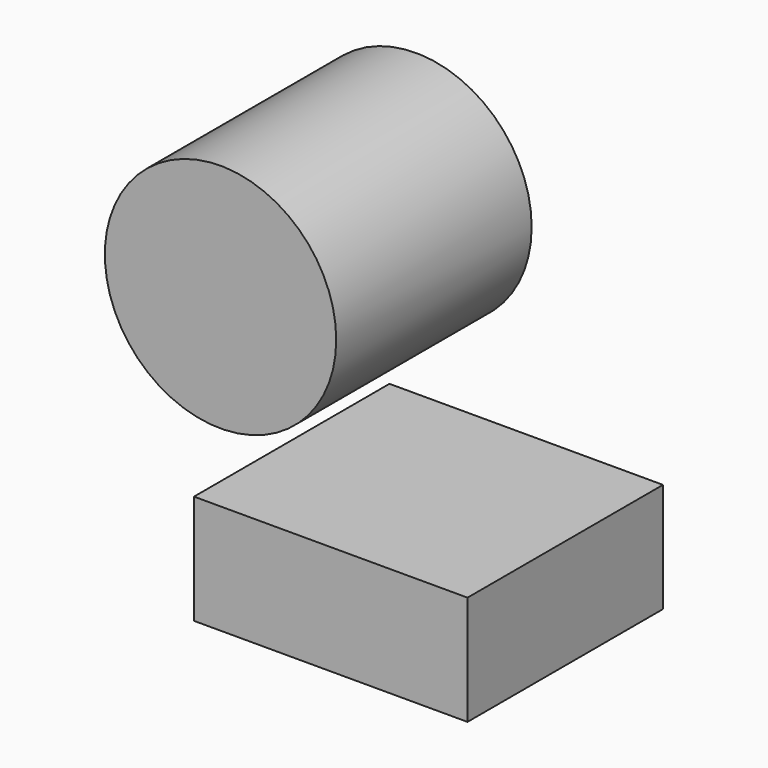
from build123d import *

# Parameters (mm, degrees)
F0_R     = 12.028292
F0_W     = 28.436514
F0_H     = 11.374602
F1_DEPTH = 25.4


with BuildPart() as f1:
    # F0 (on Front) → F1 (new body)
    with BuildSketch(Plane.XZ):
        with Locations((-11.4612, 12.309965)):
            Circle(F0_R)
        with Locations((0, -12.537916)):
            Rectangle(F0_W, F0_H)
    extrude(amount=F1_DEPTH)


solid = f1.part
